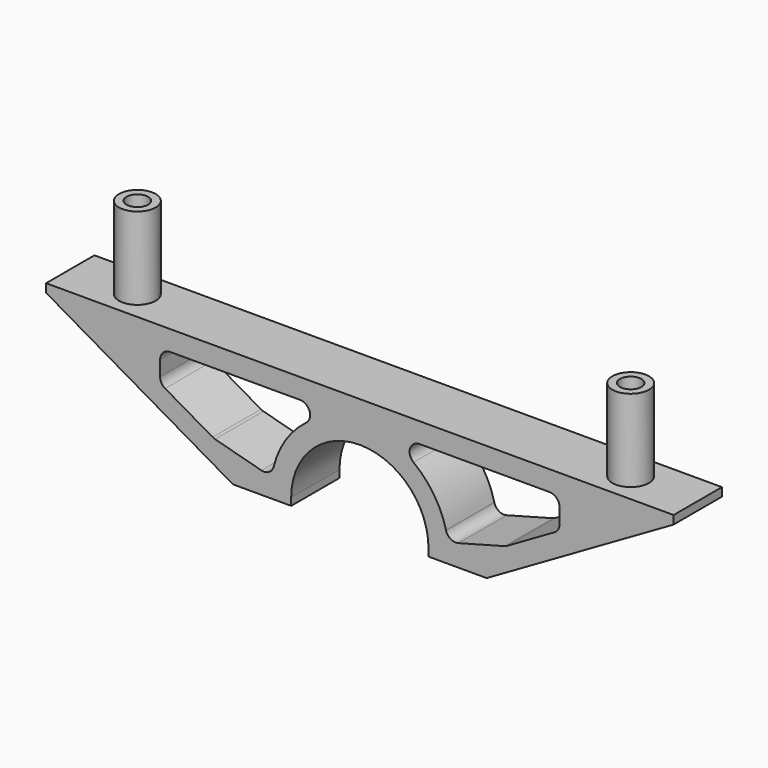
from build123d import *

# Parameters (mm, degrees)
F1_DEPTH = 9.525
F3_R     = 8.4582
F4_DEPTH = 27.45994
F6_R     = 5.7785
F7_DEPTH = 25.908
F8_R     = 3.4036
F9_DEPTH = 76.2


with BuildPart() as f1:
    # F0 (on Front) → F1 (new body, symmetric)
    with BuildSketch(Plane.XZ):
        with BuildLine():
            Line((21.6535, 0), (40.005, 0))
            Line((40.005, 0), (98.9457, 34.0294290112))
            Line((98.9457, 34.0294290112), (98.9457, 36.68776))
            Line((98.9457, 36.68776), (-98.9457, 36.68776))
            Line((-98.9457, 36.68776), (-98.9457, 34.0294290112))
            Line((-98.9457, 34.0294290112), (-40.005, 0))
            Line((-40.005, 0), (-21.6535, 0))
            Line((-21.6535, 0), (-21.6535, 2.33426))
            ThreePointArc((-21.6535, 2.33426), (0, 23.98776), (21.6535, 2.33426))
            Line((21.6535, 2.33426), (21.6535, 0))
        make_face()
        with BuildLine():
            Line((-59.8033378542, 30.33776), (-18.8585378542, 30.33776))
            ThreePointArc((-18.8585378542, 30.33776), (-15.8495372268, 28.1759432135), (-16.9381164842, 24.6343995112))
            ThreePointArc((-16.9381164842, 24.6343995112), (-23.3636326477, 17.7724166824), (-27.1562111419, 9.170648569))
            ThreePointArc((-27.1562111419, 9.170648569), (-27.1707416417, 9.1098353716), (-27.1864668557, 9.0493201004))
            ThreePointArc((-27.1864668557, 9.0493201004), (-28.6668651927, 7.1267195186), (-31.072771318, 6.8111439337))
            Line((-31.072771318, 6.8111439337), (-45.649831318, 10.7151239337))
            ThreePointArc((-45.649831318, 10.7151239337), (-46.0432879059, 10.848642966), (-46.4159399977, 11.0323977948))
            Line((-46.4159399977, 11.0323977948), (-61.3917799977, 19.6785577948))
            ThreePointArc((-61.3917799977, 19.6785577948), (-62.5539248829, 20.8406899989), (-62.9793, 22.4282))
            Line((-62.9793, 22.4282), (-62.9793, 27.16276))
            ThreePointArc((-62.9793, 27.16276), (-62.0490238861, 29.4081642686), (-59.8033378542, 30.33776))
        make_face(mode=Mode.SUBTRACT)
        with BuildLine():
            ThreePointArc((31.072771318, 6.8111439337), (28.6668651927, 7.1267195186), (27.1864668557, 9.0493201004))
            ThreePointArc((27.1864668557, 9.0493201004), (27.1707416417, 9.1098353716), (27.1562111419, 9.170648569))
            ThreePointArc((27.1562111419, 9.170648569), (23.3636326477, 17.7724166824), (16.9381164842, 24.6343995112))
            ThreePointArc((16.9381164842, 24.6343995112), (15.8495372268, 28.1759432135), (18.8585378542, 30.33776))
            Line((18.8585378542, 30.33776), (59.8033378542, 30.33776))
            ThreePointArc((59.8033378542, 30.33776), (62.0490238861, 29.4081642686), (62.9793, 27.16276))
            Line((62.9793, 27.16276), (62.9793, 22.4282))
            ThreePointArc((62.9793, 22.4282), (62.5539248829, 20.8406899989), (61.3917799977, 19.6785577948))
            Line((61.3917799977, 19.6785577948), (46.4159399977, 11.0323977948))
            ThreePointArc((46.4159399977, 11.0323977948), (46.0432879059, 10.848642966), (45.649831318, 10.7151239337))
            Line((45.649831318, 10.7151239337), (31.072771318, 6.8111439337))
        make_face(mode=Mode.SUBTRACT)
    extrude(amount=F1_DEPTH, both=True)

    # F3 (on offset) → F4 (cut)
    with BuildSketch(Plane(origin=(0, 0, 0), x_dir=(1, 0, 0), z_dir=(0, 0, -1))):
        with Locations((-77.7875, 0)):
            Circle(F3_R)
        with Locations((77.7875, 0)):
            Circle(F3_R)
    extrude(amount=-F4_DEPTH, mode=Mode.SUBTRACT)

    # F6 (on offset) → F7 (join)
    with BuildSketch(Plane.XY.offset(36.68776)):
        with Locations((-77.7875, 0)):
            Circle(F6_R)
        with Locations((77.7875, 0)):
            Circle(F6_R)
    extrude(amount=F7_DEPTH)

    # F8 (on offset) → F9 (cut)
    with BuildSketch(Plane(origin=(0, 0, 0), x_dir=(1, 0, 0), z_dir=(0, 0, -1))):
        with Locations((-77.7875, 0)):
            Circle(F8_R)
        with Locations((77.7875, 0)):
            Circle(F8_R)
    extrude(amount=-F9_DEPTH, mode=Mode.SUBTRACT)


solid = f1.part
